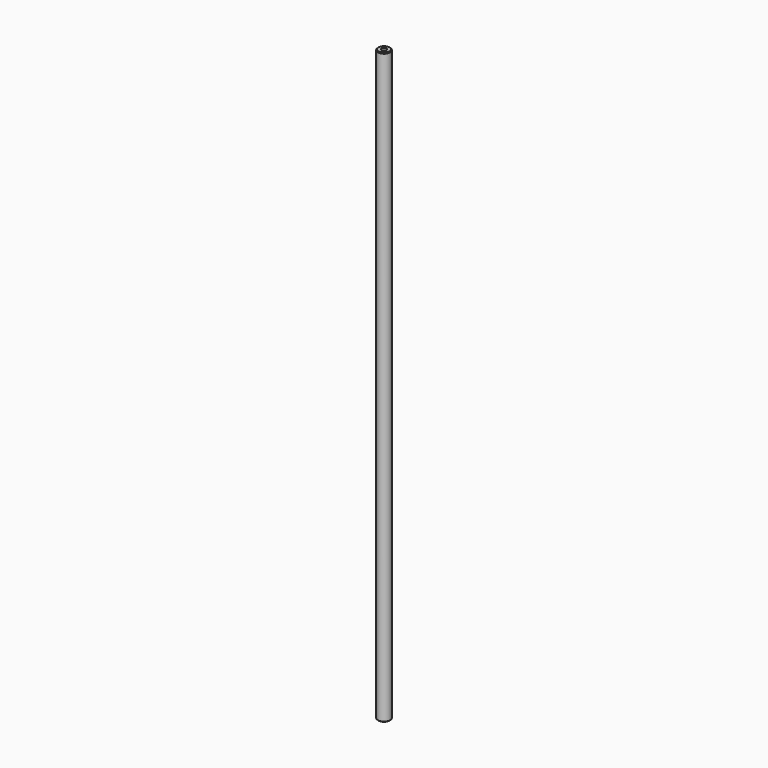
from build123d import *

# Parameters (mm, degrees)
SKETCH_R        = 4
PAD_DEPTH       = 381.92
CHAMFER_SIZE    = 0.5
SKETCH001_R     = 1.62
POCKET_DEPTH    = 15
SKETCH002_R     = 1.62
POCKET001_DEPTH = 15
CHAMFER001_SIZE = 1.62


with BuildPart() as part:
    # Sketch → Pad (new body)
    with BuildSketch(Plane.XY):
        Circle(SKETCH_R)
    extrude(amount=PAD_DEPTH)

    # Chamfer
    chamfer_edges = [part.edges().sort_by_distance(p)[0] for p in [
        (-4, 0, 0),
        (-4, 0, 381.92),
    ]]
    chamfer(chamfer_edges, length=CHAMFER_SIZE)

    # Sketch001 → Pocket (cut)
    with BuildSketch(Plane.XY.offset(381.92)):
        Circle(SKETCH001_R)
    extrude(amount=-POCKET_DEPTH, mode=Mode.SUBTRACT)

    # Sketch002 → Pocket001 (cut)
    with BuildSketch(Plane(origin=(0, 0, 0), x_dir=(1, 0, 0), z_dir=(0, 0, -1))):
        Circle(SKETCH002_R)
    extrude(amount=-POCKET001_DEPTH, mode=Mode.SUBTRACT)

    # Chamfer001
    chamfer001_edges = [part.edges().sort_by_distance(p)[0] for p in [
        (-1.62, 0, 15),
        (-1.62, 0, 366.92),
    ]]
    chamfer(chamfer001_edges, length=CHAMFER001_SIZE)


solid = part.part
